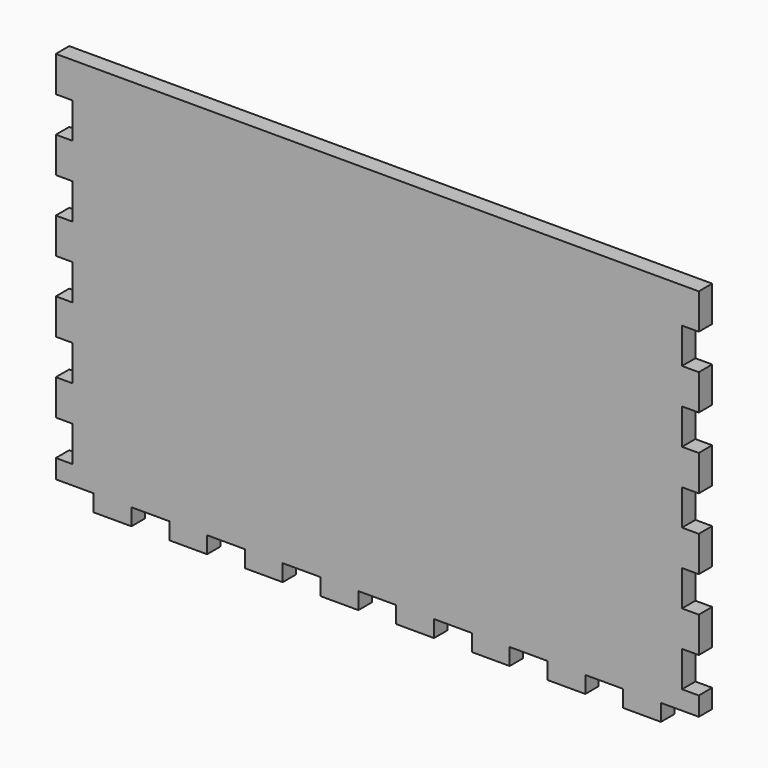
from build123d import *

# Parameters (mm, degrees)
F1_DEPTH = 6


with BuildPart() as f1:
    # F0 (on Front) → F1 (new body)
    with BuildSketch(Plane.XZ):
        Polygon((115, 70), (109, 70), (-109, 70), (-115, 70), (-115, 57.272727), (-109, 57.272727), (-109, 44.545455), (-115, 44.545455), (-115, 31.818182), (-109, 31.818182), (-109, 19.090909), (-115, 19.090909), (-115, 6.363636), (-109, 6.363636), (-109, -6.363636), (-115, -6.363636), (-115, -19.090909), (-109, -19.090909), (-109, -31.818182), (-115, -31.818182), (-115, -44.545455), (-109, -44.545455), (-109, -57.272727), (-115, -57.272727), (-115, -64), (-101.470588, -64), (-101.470588, -70), (-87.941176, -70), (-87.941176, -64), (-74.411765, -64), (-74.411765, -70), (-60.882353, -70), (-60.882353, -64), (-47.352941, -64), (-47.352941, -70), (-33.823529, -70), (-33.823529, -64), (-20.294118, -64), (-20.294118, -70), (-6.764706, -70), (-6.764706, -64), (6.764706, -64), (6.764706, -70), (20.294118, -70), (20.294118, -64), (33.823529, -64), (33.823529, -70), (47.352941, -70), (47.352941, -64), (60.882353, -64), (60.882353, -70), (74.411765, -70), (74.411765, -64), (87.941176, -64), (87.941176, -70), (101.470588, -70), (101.470588, -64), (115, -64), (115, -57.272727), (109, -57.272727), (109, -44.545455), (115, -44.545455), (115, -31.818182), (109, -31.818182), (109, -19.090909), (115, -19.090909), (115, -6.363636), (109, -6.363636), (109, 6.363636), (115, 6.363636), (115, 19.090909), (109, 19.090909), (109, 31.818182), (115, 31.818182), (115, 44.545455), (109, 44.545455), (109, 57.272727), (115, 57.272727), align=None)
    extrude(amount=F1_DEPTH)


solid = f1.part
